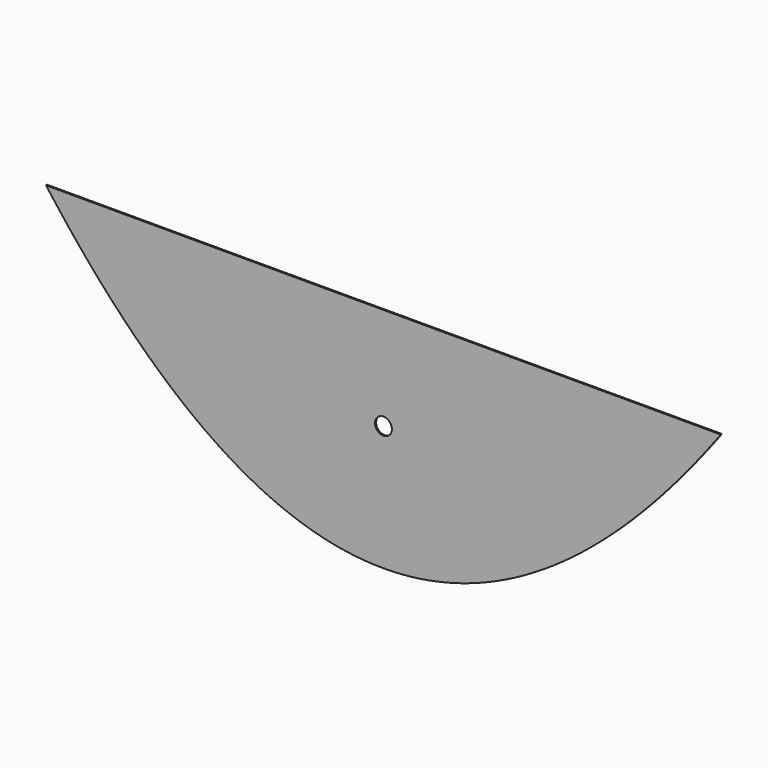
from build123d import *

# Parameters (mm, degrees)
F1_DEPTH = 2
F2_D     = 25


with BuildPart() as f1:
    # F0 (on Front) → F1 (new body)
    with BuildSketch(Plane.XZ):
        Polygon((499.9999999969, 168.5013241066), (-499.9999999969, 168.4978271156), (-498.8888878792, 167.0017129966), (-497.7777767614, 165.5089268689), (-496.6666646436, 164.0194697325), (-495.5555535259, 162.5333405876), (-494.4444414081, 161.0505394339), (-493.3333302903, 159.5710672717), (-492.2222181726, 158.0949241008), (-491.1111070548, 156.6221089213), (-489.999994937, 155.1526217332), (-488.8888838193, 153.6864625364), (-487.7777717015, 152.223632331), (-486.6666605837, 150.764131117), (-485.5555484659, 149.3079578943), (-484.4444373482, 147.855112663), (-483.3333252304, 146.405596423), (-482.2222141126, 144.9594081744), (-481.1111019949, 143.5165479172), (-479.9999908771, 142.0770166514), (-478.8888787593, 140.6408133769), (-477.7777676416, 139.2079390938), (-476.6666555238, 137.778392802), (-475.555544406, 136.3521755017), (-474.4444322882, 134.9292861926), (-473.3333211705, 133.509724875), (-472.2222090527, 132.0934925487), (-471.1110979349, 130.6805882138), (-469.9999858172, 129.2710128702), (-468.8888746994, 127.864765518), (-467.7777625816, 126.4618471572), (-466.6666514639, 125.0622557878), (-465.5555393461, 123.6659944097), (-464.4444282283, 122.273061023), (-463.3333161106, 120.8834556276), (-462.2222049928, 119.4971782236), (-461.111092875, 118.114229811), (-459.9999817572, 116.7346103897), (-458.8888696395, 115.3583179599), (-457.7777585217, 113.9853555213), (-456.6666464039, 112.6157200742), (-455.5555352862, 111.2494136184), (-454.4444231684, 109.8864361539), (-453.3333120506, 108.5267866809), (-452.2221999329, 107.1704651992), (-451.1110888151, 105.8174727089), (-449.9999766973, 104.4678082099), (-448.8888655795, 103.1214717023), (-447.7777534618, 101.7784641861), (-446.666642344, 100.4387856612), (-445.5555302262, 99.1024351277), (-444.4444191085, 97.7694125856), (-443.3333069907, 96.4397180348), (-442.2221958729, 95.1133524754), (-441.1110837552, 93.7903159074), (-439.9999726374, 92.4706073307), (-438.8888605196, 91.1542267454), (-437.7777494018, 89.8411751515), (-436.6666372841, 88.5314515489), (-435.5555261663, 87.2250559377), (-434.4444140485, 85.9219893179), (-433.3333029308, 84.6222516894), (-432.222190813, 83.3258420523), (-431.1110796952, 82.0327604066), (-429.9999675775, 80.7430067522), (-428.8888564597, 79.4565820892), (-427.7777443419, 78.1734864175), (-426.6666332241, 76.8937187373), (-425.5555211064, 75.6172790483), (-424.4444099886, 74.3441683508), (-423.3332978708, 73.0743856446), (-422.2221867531, 71.8079309298), (-421.1110746353, 70.5448052064), (-419.9999635175, 69.2850084743), (-418.8888513998, 68.0285387336), (-417.777740282, 66.7753989842), (-416.6666281642, 65.5255862263), (-415.5555170465, 64.2791024596), (-414.4444049287, 63.0359476844), (-413.3332938109, 61.7961199005), (-412.2221816931, 60.559622108), (-411.1110705754, 59.3264513069), (-409.9999584576, 58.0966094971), (-408.8888473398, 56.8700966787), (-407.7777352221, 55.6469118516), (-406.6666241043, 54.4270550159), (-405.5555119865, 53.2105271716), (-404.4444008688, 51.9973273186), (-403.333288751, 50.7874564571), (-402.2221776332, 49.5809135868), (-401.1110655154, 48.377698708), (-399.9999543977, 47.1778128205), (-398.8888422799, 45.9812549244), (-397.7777311621, 44.7880260196), (-396.6666190444, 43.5981251062), (-395.5555079266, 42.4115521842), (-394.4443958088, 41.2283082535), (-393.3332846911, 40.0483933143), (-392.2221725733, 38.8718053663), (-391.1110614555, 37.6985464098), (-389.9999493378, 36.5286164446), (-388.88883822, 35.3620144708), (-387.7777261022, 34.1987404883), (-386.6666149844, 33.0387954972), (-385.5555028667, 31.8821784975), (-384.4443917489, 30.7288904891), (-383.3332796311, 29.5789304721), (-382.2221685134, 28.4322994465), (-381.1110563956, 27.2889964122), (-379.9999452778, 26.1490213693), (-378.8888331601, 25.0123753178), (-377.7777220423, 23.8790572576), (-376.6666099245, 22.7490671888), (-375.5554988067, 21.6224061114), (-374.444386689, 20.4990740253), (-373.3332755712, 19.3790689306), (-372.2221634534, 18.2623938273), (-371.1110523357, 17.1490457153), (-369.9999402179, 16.0390265947), (-368.8888291001, 14.9323364655), (-367.7777169824, 13.8289743276), (-366.6666058646, 12.7289401811), (-365.5554937468, 11.6322350259), (-364.444382629, 10.5388578622), (-363.3332705113, 9.4488086898), (-362.2221593935, 8.3620885087), (-361.1110472757, 7.278697319), (-359.999936158, 6.1986331207), (-358.8888240402, 5.1218989138), (-357.7777129224, 4.0484916982), (-356.6666008047, 2.978413474), (-355.5554896869, 1.9116642412), (-354.4443775691, 0.8482419997), (-353.3332664514, -0.2118502504), (-352.2221543336, -1.2686155092), (-351.1110432158, -2.3220507766), (-349.999931098, -3.3721590526), (-348.8888199803, -4.4189383372), (-347.7777078625, -5.4623896305), (-346.6665967447, -6.5025119324), (-345.555484627, -7.539306243), (-344.4443735092, -8.5727715621), (-343.3332613914, -9.60290889), (-342.2221502737, -10.6297182264), (-341.1110381559, -11.6531985715), (-339.9999270381, -12.6733509252), (-338.8888149203, -13.6901742876), (-337.7777038026, -14.7036696586), (-336.6665916848, -15.7138360382), (-335.555480567, -16.7206744264), (-334.4443684493, -17.7241848233), (-333.3332573315, -18.7243662288), (-332.2221452137, -19.721219643), (-331.111034096, -20.7147450658), (-329.9999219782, -21.7049414972), (-328.8888108604, -22.6918089373), (-327.7776987427, -23.675348386), (-326.6665876249, -24.6555598433), (-325.5554755071, -25.6324423093), (-324.4443643893, -26.6059967838), (-323.3332522716, -27.5762232671), (-322.2221411538, -28.5431207589), (-321.111029036, -29.5066902594), (-319.9999179183, -30.4669307686), (-318.8888058005, -31.4238432863), (-317.7776946827, -32.3774268127), (-316.666582565, -33.3276823478), (-315.5554714472, -34.2746098914), (-314.4443593294, -35.2182084437), (-313.3332482116, -36.1584790047), (-312.2221360939, -37.0954205742), (-311.1110249761, -38.0290341524), (-309.9999128583, -38.9593197393), (-308.8888017406, -39.8862763347), (-307.7776896228, -40.8099039388), (-306.666578505, -41.7302045516), (-305.5554663873, -42.6471761729), (-304.4443552695, -43.5608188029), (-303.3332431517, -44.4711334416), (-302.2221320339, -45.3781200888), (-301.1110199162, -46.2817777448), (-299.9999087984, -47.1821074093), (-298.8887966806, -48.0791080825), (-297.7776855629, -48.9727807643), (-296.6665734451, -49.8631254547), (-295.5554623273, -50.7501411538), (-294.4443502096, -51.6338278615), (-293.3332390918, -52.5141875778), (-292.222126974, -53.3912183028), (-291.1110158562, -54.2649200364), (-289.9999037385, -55.1352937787), (-288.8887926207, -56.0023395296), (-287.7776805029, -56.8660562891), (-286.6665693852, -57.7264450572), (-285.5554572674, -58.583504834), (-284.4443461496, -59.4372366194), (-283.3332340319, -60.2876404135), (-282.2221229141, -61.1347152161), (-281.1110107963, -61.9784620275), (-279.9998996786, -62.8188798474), (-278.8887875608, -63.655969676), (-277.777676443, -64.4897305132), (-276.6665643252, -65.3201633591), (-275.5554532075, -66.1472682135), (-274.4443410897, -66.9710440767), (-273.3332299719, -67.7914919484), (-272.2221178542, -68.6086108288), (-271.1110067364, -69.4224017178), (-269.9998946186, -70.2328646155), (-268.8887835009, -71.0399985218), (-267.7776713831, -71.8438044367), (-266.6665602653, -72.6442813603), (-265.5554481475, -73.4414302924), (-264.4443370298, -74.2352512333), (-263.333224912, -75.0257431827), (-262.2221137942, -75.8129061408), (-261.1110016765, -76.5967421075), (-259.9998905587, -77.3772480829), (-258.8887784409, -78.1544270669), (-257.7776673232, -78.9282770595), (-256.6665552054, -79.6987980608), (-255.5554440876, -80.4659920707), (-254.4443319699, -81.2298560892), (-253.3332208521, -81.9903931164), (-252.2221087343, -82.7476011522), (-251.1109976165, -83.5014801966), (-249.9998854988, -84.2520312497), (-248.888774381, -84.9992543114), (-247.7776622632, -85.7431483817), (-246.6665511455, -86.4837144607), (-245.5554390277, -87.2209515483), (-244.4443279099, -87.9548606445), (-243.3332157922, -88.6854417494), (-242.2221046744, -89.4126938629), (-241.1109925566, -90.136617985), (-239.9998814388, -90.8572131158), (-238.8887693211, -91.5744802552), (-237.7776582033, -92.2884194032), (-236.6665460855, -92.9990295599), (-235.5554349678, -93.7063117252), (-234.44432285, -94.4102648992), (-233.3332117322, -95.1108900817), (-232.2220996145, -95.8081862729), (-231.1109884967, -96.5021544728), (-229.9998763789, -97.1927946813), (-228.8887652611, -97.8801058984), (-227.7776531434, -98.5640891241), (-226.6665420256, -99.2447433585), (-225.5554299078, -99.9220696015), (-224.4443187901, -100.5960678532), (-223.3332066723, -101.2667371134), (-222.2220955545, -101.9340783823), (-221.1109834368, -102.5980906599), (-219.999872319, -103.2587749461), (-218.8887602012, -103.9161302409), (-217.7776490835, -104.5701575443), (-216.6665369657, -105.2208568564), (-215.5554258479, -105.8682271771), (-214.4443137301, -106.5122695065), (-213.3332016124, -107.1529828445), (-212.2220904946, -107.7903681911), (-211.1109783768, -108.4244255463), (-209.9998672591, -109.0551539102), (-208.8887551413, -109.6825542828), (-207.7776440235, -110.3066256639), (-206.6665319058, -110.9273690537), (-205.555420788, -111.5447834521), (-204.4443086702, -112.1588708592), (-203.3331975524, -112.7696282749), (-202.2220854347, -113.3770576992), (-201.1109743169, -113.9811591321), (-199.9998621991, -114.5819325737), (-198.8887510814, -115.179377024), (-197.7776389636, -115.7734924828), (-196.6665278458, -116.3642799503), (-195.5554157281, -116.9517394264), (-194.4443046103, -117.5358699112), (-193.3331924925, -118.1166724046), (-192.2220813748, -118.6941469066), (-191.110969257, -119.2682924173), (-189.9998581392, -119.8391099366), (-188.8887460214, -120.4065984645), (-187.7776349037, -120.9707590011), (-186.6665227859, -121.5315905463), (-185.5554116681, -122.0890941001), (-184.4442995504, -122.6432696626), (-183.3331884326, -123.1941162337), (-182.2220763148, -123.7416348134), (-181.1109651971, -124.2858244018), (-179.9998530793, -124.8266859988), (-178.8887419615, -125.3642186044), (-177.7776298437, -125.8984242187), (-176.666518726, -126.4292998416), (-175.5554066082, -126.9568474731), (-174.4442954904, -127.4810671133), (-173.3331833727, -128.0019587621), (-172.2220722549, -128.5195214195), (-171.1109601371, -129.0337550856), (-169.9998490194, -129.5446617603), (-168.8887369016, -130.0522384437), (-167.7776257838, -130.5564881356), (-166.666513666, -131.0574088362), (-165.5554025483, -131.5550005455), (-164.4442904305, -132.0492642634), (-163.3331793127, -132.5401999899), (-162.222067195, -133.027806725), (-161.1109560772, -133.5120854688), (-159.9998439594, -133.9930362212), (-158.8887328417, -134.4706579823), (-157.7776207239, -134.9449507519), (-156.6665096061, -135.4159155303), (-155.5553974884, -135.8835523172), (-154.4442863706, -136.3478611128), (-153.3331742528, -136.808840917), (-152.222063135, -137.2664917298), (-151.1109510173, -137.7208145513), (-149.9998398995, -138.1718093814), (-148.8887277817, -138.6194752202), (-147.777616664, -139.0638130676), (-146.6665045462, -139.5048229236), (-145.5553934284, -139.9425037883), (-144.4442813107, -140.3768556615), (-143.3331701929, -140.8078795435), (-142.2220580751, -141.235575434), (-141.1109469573, -141.6599433332), (-139.9998348396, -142.080982241), (-138.8887237218, -142.4986921575), (-137.777611604, -142.9130740826), (-136.6665004863, -143.3241280163), (-135.5553883685, -143.7318529587), (-134.4442772507, -144.1362499097), (-133.333165133, -144.5373188693), (-132.2220540152, -144.9350588375), (-131.1109418974, -145.3294708144), (-129.9998307796, -145.7205538), (-128.8887186619, -146.1083087941), (-127.7776075441, -146.4927347969), (-126.6664954263, -146.8738328083), (-125.5553843086, -147.2516028284), (-124.4442721908, -147.6260438571), (-123.333161073, -147.9971558944), (-122.2220489553, -148.3649409404), (-121.1109378375, -148.729396995), (-119.9998257197, -149.0905240582), (-118.888714602, -149.4483231301), (-117.7776024842, -149.8027942106), (-116.6664913664, -150.1539362997), (-115.5553792486, -150.5017503975), (-114.4442681309, -150.8462355039), (-113.3331560131, -151.1873926189), (-112.2220448953, -151.5252217426), (-111.1109327776, -151.8597218749), (-109.9998216598, -152.1908940159), (-108.888709542, -152.5187371654), (-107.7775984243, -152.8432523236), (-106.6664863065, -153.1644394905), (-105.5553751887, -153.4822976659), (-104.4442630709, -153.7968278501), (-103.3331519532, -154.1080290428), (-102.2220398354, -154.4159022442), (-101.1109287176, -154.7204464542), (-99.9998165999, -155.0216626728), (-98.8887054821, -155.3195509001), (-97.7775933643, -155.614110136), (-96.6664822466, -155.9053413806), (-95.5553701288, -156.1932436337), (-94.444259011, -156.4778178956), (-93.3331468933, -156.759064166), (-92.2220357755, -157.0369814451), (-91.1109236577, -157.3115697328), (-89.9998125399, -157.5828310291), (-88.8887004222, -157.8507623341), (-87.7775893044, -158.1153666477), (-86.6664771866, -158.37664197), (-85.5553660689, -158.6345893009), (-84.4442539511, -158.8892076404), (-83.3331428333, -159.1404979885), (-82.2220307156, -159.3884593453), (-81.1109195978, -159.6330927107), (-79.99980748, -159.8743970848), (-78.8886963622, -160.1123744675), (-77.7775842445, -160.3470218588), (-76.6664731267, -160.5783422588), (-75.5553610089, -160.8063326674), (-74.4442498912, -161.0309960846), (-73.3331377734, -161.2523305104), (-72.2220266556, -161.4703369449), (-71.1109145379, -161.6850143881), (-69.9998034201, -161.8963638398), (-68.8886913023, -162.1043843002), (-67.7775801845, -162.3090767692), (-66.6664680668, -162.5104412469), (-65.555356949, -162.7084767332), (-64.4442448312, -162.9031832281), (-63.3331377135, -163.0945617317), (-62.2220295957, -163.2826112439), (-61.1109214779, -163.4673327647), (-59.9998133601, -163.6487262942), (-58.8887062423, -163.8267908323), (-57.7775981246, -164.001527379), (-56.6664900068, -164.1729349344), (-55.555382889, -164.3410144984), (-54.4442747712, -164.505765071), (-53.3331666534, -164.6671876523), (-52.2220595357, -164.8252822422), (-51.1109514179, -164.9800478407), (-49.9998433001, -165.1314854479), (-48.8887361823, -165.2795950637), (-47.7776280645, -165.4243756881), (-46.6665199468, -165.5658283212), (-45.555412829, -165.7039519629), (-44.4443047112, -165.8387476132), (-43.3331965934, -165.9702152722), (-42.2220884756, -166.0983539398), (-41.1109813579, -166.2231646161), (-39.9998732401, -166.3446463009), (-38.8887651223, -166.4627999944), (-37.7776580045, -166.5776256966), (-36.6665498868, -166.6891224074), (-35.555441769, -166.7972911268), (-34.4443346512, -166.9021318548), (-33.3332265334, -167.0036435915), (-32.2221184156, -167.1018263368), (-31.1110112979, -167.1966820908), (-29.9999031801, -167.2882078533), (-28.8887950623, -167.3764066245), (-27.7776879445, -167.4612764044), (-26.6665798267, -167.5428181929), (-25.555471709, -167.62103099), (-24.4443635912, -167.6959157957), (-23.3332564734, -167.7674726101), (-22.2221483556, -167.8357004331), (-21.1110402378, -167.9005992648), (-19.9999331201, -167.9621711051), (-18.8888250023, -168.020413954), (-17.7777168845, -168.0753278115), (-16.6666097667, -168.1269136777), (-15.5555016489, -168.1751715525), (-14.4443935312, -168.220101436), (-13.3332864134, -168.2617023281), (-12.2221782956, -168.2999742288), (-11.1110701778, -168.3349181382), (-9.99996306, -168.3665340561), (-8.8888549423, -168.3948219828), (-7.7777468245, -168.419780918), (-6.6666387067, -168.4414108619), (-5.5555295889, -168.4597138144), (-4.4444214711, -168.4746877756), (-3.3333133534, -168.4863327454), (-2.2222052356, -168.4946497238), (-1.1110971178, -168.4996387109), (1.1e-05, -168.5012987066), (1.1111201177, -168.4996307109), (2.2222282355, -168.4946337239), (3.3333363533, -168.4863087455), (4.4444444711, -168.4746557757), (5.5555525889, -168.4596738145), (6.6666607066, -168.441363862), (7.7777698244, -168.4197259182), (8.8888779422, -168.3947589829), (9.99998506, -168.3664640563), (11.1110931778, -168.3348401384), (12.2222012955, -168.299888229), (13.3333094133, -168.2616083283), (14.4444165311, -168.2199994363), (15.5555246489, -168.1750615528), (16.6666327666, -168.126796678), (17.7777398844, -168.0752028119), (18.8888480022, -168.0202799543), (19.99995612, -167.9620301054), (21.1110632378, -167.9004502652), (22.2221713555, -167.8355434335), (23.3332794733, -167.7673076105), (24.4443865911, -167.6957437962), (25.5554947089, -167.6208509905), (26.6666028267, -167.5426301934), (27.7777099444, -167.4610804049), (28.8888180622, -167.3762026251), (29.99992618, -167.2879968539), (31.1110332978, -167.1964620913), (32.2221414156, -167.1015993374), (33.3332495333, -167.0034075921), (34.4443576511, -166.9018888554), (35.5554647689, -166.7970401274), (36.6665728867, -166.688864408), (37.7776810045, -166.5773586973), (38.8887881222, -166.4625259952), (39.99989624, -166.3443643017), (41.1110043578, -166.2228746168), (42.2221114756, -166.0980559406), (43.3332195934, -165.969909273), (44.4443277111, -165.8384346141), (45.5554348289, -165.7036309637), (46.6665429467, -165.565499322), (47.7776510645, -165.424038689), (48.8887581823, -165.2792500646), (49.9998663, -165.1311334488), (51.1109744178, -164.9796878416), (52.2220825356, -164.8249142431), (53.3331896534, -164.6668116533), (54.4442977712, -164.505381072), (55.5554058889, -164.3406224994), (56.6665130067, -164.1725349354), (57.7776211245, -164.0011193801), (58.8887292423, -163.8263748333), (59.9998363601, -163.6483022953), (61.1109444778, -163.4669017658), (62.2220525956, -163.282172245), (63.3331597134, -163.0941147328), (64.4442678312, -162.9027292293), (65.5553799489, -162.7080137344), (66.6664910667, -162.5099702481), (67.7776031845, -162.3085987705), (68.8887143022, -162.1038983015), (69.99982642, -161.8958698411), (71.1109375378, -161.6845123894), (72.2220496556, -161.4698269462), (73.3331607733, -161.2518135118), (74.4442728911, -161.0304710859), (75.5553840089, -160.8057996687), (76.6664961266, -160.5778012602), (77.7776072444, -160.3464738602), (78.8887193622, -160.1118174689), (79.9998304799, -159.8738330863), (81.1109425977, -159.6325207122), (82.2220537155, -159.3878793468), (83.3331658333, -159.1399099901), (84.444276951, -158.8886116419), (85.5553890688, -158.6339853024), (86.6665001866, -158.3760309716), (87.7776123043, -158.1147476493), (88.8887234221, -157.8501353358), (89.9998355399, -157.5821960308), (91.1109466576, -157.3109277345), (92.2220587754, -157.0363304468), (93.3331698932, -156.7584051677), (94.4442820109, -156.4771518973), (95.5553931287, -156.1925696355), (96.6665052465, -155.9046593823), (97.7776163643, -155.6134201378), (98.888728482, -155.3188529019), (99.9998395998, -155.0209576747), (101.1109517176, -154.719733456), (102.2220628353, -154.415180246), (103.3331749531, -154.1073000447), (104.4442860709, -153.796090852), (105.5553981886, -153.4815526679), (106.6665093064, -153.1636864924), (107.7776214242, -152.8424923256), (108.888732542, -152.5179691674), (109.9998446597, -152.1901180179), (111.1109557775, -151.858937877), (112.2220678953, -151.5244297447), (113.333179013, -151.186593621), (114.4442911308, -150.845428506), (115.5554022486, -150.5009353996), (116.6665143663, -150.1531133019), (117.7776254841, -149.8019632128), (118.8887376019, -149.4474841323), (119.9998487197, -149.0896780604), (121.1109608374, -148.7285419972), (122.2220719552, -148.3640779426), (123.333184073, -147.9962858967), (124.4442951907, -147.6251658594), (125.5554073085, -147.2507168307), (126.6665184263, -146.8729388107), (127.777630544, -146.4918327993), (128.8887346618, -146.1074017965), (129.9998457796, -145.7196388023), (131.1109578974, -145.3285478168), (132.2220690151, -144.93412884), (133.3331811329, -144.5363808717), (134.4442922507, -144.1353049121), (135.5554043684, -143.7308999611), (136.6665154862, -143.3231670188), (137.777627604, -142.9121050851), (138.8887387218, -142.49771516), (139.9998508395, -142.0799972436), (141.1109619573, -141.6589503358), (142.2220740751, -141.2345754366), (143.3331851928, -140.8068715461), (144.4442973106, -140.3758396642), (145.5554084284, -139.9414797909), (146.6665205461, -139.5037909263), (147.7776316639, -139.0627740703), (148.8887437817, -138.6184282229), (149.9998548995, -138.1707543842), (151.1109670172, -137.7197515541), (152.222078135, -137.2654207326), (153.3331902528, -136.8077619198), (154.4443013705, -136.3467741156), (155.5554134883, -135.88245832), (156.6665246061, -135.4148135331), (157.7776367238, -134.9438407548), (158.8887478416, -134.4695399852), (159.9998599594, -133.9919102241), (161.1109710772, -133.5109524717), (162.2220831949, -133.026665728), (163.3331943127, -132.5390509929), (164.4443064305, -132.0481072664), (165.5554175482, -131.5538365485), (166.666529666, -131.0562358393), (167.7776407838, -130.5553071387), (168.8887529015, -130.0510504467), (169.9998640193, -129.5434657634), (171.1109761371, -129.0325520887), (172.2220872548, -128.5183094227), (173.3331993726, -128.0007387653), (174.4443104904, -127.4798401165), (175.5554226082, -126.9556134763), (176.6665337259, -126.4280568448), (177.7776458437, -125.8971732219), (178.8887569615, -125.3629606077), (179.9998690792, -124.8254200021), (181.110980197, -124.2845504051), (182.2220923148, -123.7403528167), (183.3332034325, -123.192826237), (184.4443155503, -122.6419716659), (185.5554266681, -122.0877891035), (186.6665387859, -121.5302775497), (187.7776499036, -120.9694380045), (188.8887620214, -120.405269468), (189.9998731392, -119.8377729401), (191.1109852569, -119.2669484208), (192.2220963747, -118.6927949101), (193.3332084925, -118.1153124081), (194.4443196102, -117.5345029147), (195.555431728, -116.95036343), (196.6665428458, -116.3628969539), (197.7776549635, -115.7721014864), (198.8887660813, -115.1779780276), (199.9998781991, -114.5805255774), (201.1109893169, -113.9797451358), (202.2221014346, -113.3756357029), (203.3332125524, -112.7681982786), (204.4443246702, -112.1574318629), (205.5554357879, -111.5433374559), (206.6665479057, -110.9259150575), (207.7776590235, -110.3051636677), (208.8887711412, -109.6810842866), (209.999882259, -109.0536769141), (211.1109943768, -108.4229405502), (212.2221054946, -107.788875195), (213.3332176123, -107.1514828484), (214.4443287301, -106.5107605104), (215.5554408479, -105.8667111811), (216.6665519656, -105.2193328604), (217.7776640834, -104.5686255483), (218.8887752012, -103.9145902449), (219.9998873189, -103.2572269501), (221.1109984367, -102.5965356639), (222.2221105545, -101.9325143864), (223.3332216723, -101.2651661175), (224.44433379, -100.5944888572), (225.5554449078, -99.9204836056), (226.6665570256, -99.2431493626), (227.7776681433, -98.5624871283), (228.8887802611, -97.8784959026), (229.9998913789, -97.1911766855), (231.1110034966, -96.500529477), (232.2221146144, -95.8065532772), (233.3332267322, -95.109248086), (234.4443378499, -94.4086159034), (235.5554499677, -93.7046547295), (236.6665610855, -92.9973645642), (237.7776732033, -92.2867464076), (238.888784321, -91.5728002596), (239.9998964388, -90.8555251202), (241.1110075566, -90.1349219894), (242.2221196743, -89.4109898673), (243.3332307921, -88.6837297538), (244.4443429099, -87.953141649), (245.5554540276, -87.2192245528), (246.6665661454, -86.4819794652), (247.7776772632, -85.7414053862), (248.888789381, -84.9975033159), (249.9999004987, -84.2502732542), (251.1110126165, -83.4997142012), (252.2221237343, -82.7458261568), (253.333235852, -81.988611121), (254.4443469698, -81.2280660939), (255.5554590876, -80.4641940754), (256.6665552054, -79.6970030655), (257.7776673231, -78.9264740642), (258.8887784409, -78.1526160716), (259.9998905587, -77.3754300876), (261.1110016765, -76.5949161123), (262.2221137942, -75.8110721456), (263.333224912, -75.0239011875), (264.4443370298, -74.2334012381), (265.5554481475, -73.4395732973), (266.6665602653, -72.6424163651), (267.7776713831, -71.8419314416), (268.8887835008, -71.0381185267), (269.9998946186, -70.2309766204), (271.1110067364, -69.4205057228), (272.2221178542, -68.6067078337), (273.3332299719, -67.7895799534), (274.4443410897, -66.9691250816), (275.5554532075, -66.1453412185), (276.6665643252, -65.3182283641), (277.777676443, -64.4877885182), (278.8887875608, -63.6540186811), (279.9998996785, -62.8169218525), (281.1110107963, -61.9764960326), (282.2221229141, -61.1327412213), (283.3332340319, -60.2856584186), (284.4443461496, -59.4352476246), (285.5554572674, -58.5815078392), (286.6665693852, -57.7244400624), (287.7776805029, -56.8640432943), (288.8887926207, -56.0003185348), (289.9999037385, -55.1332657839), (291.1110158562, -54.2628840417), (292.222126974, -53.3891743081), (293.3332390918, -52.5121355832), (294.4443502096, -51.6317688668), (295.5554623273, -50.7480741592), (296.6665734451, -49.8610504601), (297.7776855629, -48.9706977697), (298.8887966806, -48.0770180879), (299.9999087984, -47.1800094147), (301.1110199162, -46.2796717502), (302.2221320339, -45.3760060943), (303.3332431517, -44.4690124471), (304.4443552695, -43.5586898085), (305.5554663872, -42.6450391785), (306.666578505, -41.7280595571), (307.7776896228, -40.8077519444), (308.8888017406, -39.8841163403), (309.9999128583, -38.9571517449), (311.1110249761, -38.0268581581), (312.2221360939, -37.0932375799), (313.3332482116, -36.1562880103), (314.4443593294, -35.2160094494), (315.5554714472, -34.2724028971), (316.6665825649, -33.3254683535), (317.7776946827, -32.3752048185), (318.8888058005, -31.4216132921), (319.9999179183, -30.4646927744), (321.111029036, -29.5044442653), (322.2221411538, -28.5408677648), (323.3332522716, -27.5739622729), (324.4443643893, -26.6037277897), (325.5554755071, -25.6301663152), (326.6665876249, -24.6532758492), (327.7776987426, -23.6730563919), (328.8888108604, -22.6895089432), (329.9999219782, -21.7026335032), (331.1110340959, -20.7124290718), (332.2221452137, -19.718896649), (333.3332573315, -18.7220352349), (334.4443684493, -17.7218458294), (335.555480567, -16.7183284325), (336.6665916848, -15.7114820443), (337.7777038026, -14.7013076647), (338.8888149203, -13.6878042937), (339.9999270381, -12.6709729314), (341.1110381559, -11.6508125777), (342.2221502736, -10.6273242326), (343.3332613914, -9.6005078962), (344.4443735092, -8.5703625684), (345.555484627, -7.5368892492), (346.6665967447, -6.5000879387), (347.7777078625, -5.4599576368), (348.8888199803, -4.4164983435), (349.999931098, -3.3697110589), (351.1110432158, -2.3195957829), (352.2221543336, -1.2661515156), (353.3332664513, -0.2093792568), (354.4443775691, 0.8507209933), (355.5554896869, 1.9141502347), (356.6666008047, 2.9809074675), (357.7777129224, 4.0509936917), (358.8888240402, 5.1244079073), (359.999936158, 6.2011511142), (361.1110472757, 7.2812223125), (362.2221593935, 8.3646215022), (363.3332705113, 9.4513496832), (364.444382629, 10.5414058556), (365.5554937468, 11.6347910193), (366.6666058646, 12.7315041744), (367.7777169823, 13.8315463209), (368.8888291001, 14.9349164588), (369.9999402179, 16.041614588), (371.1110523357, 17.1516417086), (372.2221634534, 18.2649968205), (373.3332755712, 19.3816799238), (374.444386689, 20.5016920185), (375.5554988067, 21.6250331046), (376.6666099245, 22.751701182), (377.7777220423, 23.8816992508), (378.88883316, 25.0150243109), (379.9999452778, 26.1516783624), (381.1110563956, 27.2916614053), (382.2221685134, 28.4349724395), (383.3332796311, 29.5816114652), (384.4443917489, 30.7315794821), (385.5555028667, 31.8848754905), (386.6666149844, 33.0414994902), (387.7777261022, 34.2014524813), (388.88883822, 35.3647344637), (389.9999493377, 36.5313434375), (391.1110614555, 37.7012824027), (392.2221725733, 38.8745483592), (393.333284691, 40.0511433071), (394.4443958088, 41.2310672464), (395.5555079266, 42.414319177), (396.6666190444, 43.600899099), (397.7777311621, 44.7908080124), (398.8888422799, 45.9840449171), (399.9999543977, 47.1806098132), (401.1110655154, 48.3805037007), (402.2221776332, 49.5837265795), (403.333288751, 50.7902764497), (404.4444008687, 52.0001563113), (405.5555119865, 53.2133631642), (406.6666241043, 54.4298990085), (407.7777352221, 55.6497638442), (408.8888473398, 56.8729556712), (409.9999584576, 58.0994774896), (411.1110705754, 59.3293262994), (412.2221816931, 60.5625041005), (413.3332938109, 61.799010893), (414.4444049287, 63.0388456769), (415.5555170464, 64.2820084521), (416.6666281642, 65.5285002187), (417.777740282, 66.7783199767), (418.8888513998, 68.031468726), (419.9999635175, 69.2879454667), (421.1110746353, 70.5477501987), (422.2221867531, 71.8108839222), (423.3332978708, 73.077345637), (424.4444099886, 74.3471363431), (425.5555211064, 75.6202550406), (426.6666332241, 76.8967027295), (427.7777443419, 78.1764774098), (428.8888564597, 79.4595820814), (429.9999675774, 80.7460147444), (431.1110796952, 82.0357753987), (432.222190813, 83.3288640445), (433.3333029308, 84.6252816815), (434.4444140485, 85.92502831), (435.5555261663, 87.2281019298), (436.6666372841, 88.534505541), (437.7777494018, 89.8442361435), (438.8888605196, 91.1572957375), (439.9999726374, 92.4736843227), (441.1110837551, 93.7934008994), (442.2221958729, 95.1164454674), (443.3333069907, 96.4428190268), (444.4444191085, 97.7725205775), (445.5555302262, 99.1055511196), (446.666642344, 100.4419096531), (447.7777534618, 101.781596178), (448.8888655795, 103.1246116942), (449.9999766973, 104.4709552017), (451.1110888151, 105.8206277007), (452.2221999328, 107.173628191), (453.3333120506, 108.5299566727), (454.4444231684, 109.8896141457), (455.5555352862, 111.2525996101), (456.6666464039, 112.6189140659), (457.7777585217, 113.988556513), (458.8888696395, 115.3615279515), (459.9999817572, 116.7378273814), (461.111092875, 118.1174548026), (462.2222049928, 119.5004112152), (463.3333161105, 120.8866956192), (464.4444282283, 122.2763090145), (465.5555393461, 123.6692504012), (466.6666514638, 125.0655197793), (467.7777625816, 126.4651181487), (468.8888746994, 127.8680445095), (469.9999858172, 129.2742998617), (471.1110979349, 130.6838832052), (472.2222090527, 132.0967955401), (473.3333211705, 133.5130348664), (474.4444322882, 134.932604184), (475.555544406, 136.355501493), (476.6666555238, 137.7817267934), (477.7777676415, 139.2112800851), (478.8888787593, 140.6441623682), (479.9999908771, 142.0803736427), (481.1111019949, 143.5199129085), (482.2222141126, 144.9627801657), (483.3333252304, 146.4089764143), (484.4444373482, 147.8585006542), (485.5555484659, 149.3113528855), (486.6666605837, 150.7675341081), (487.7777717015, 152.2270443221), (488.8888838192, 153.6898815275), (489.999994937, 155.1560477243), (491.1111070548, 156.6255429124), (492.2222181726, 158.0983660919), (493.3333302903, 159.5745172628), (494.4444414081, 161.053997425), (495.5555535259, 162.5368065786), (496.6666646436, 164.0229427235), (497.7777767614, 165.5124078598), (498.8888878792, 167.0052019875), align=None)
    extrude(amount=F1_DEPTH)

    # F2 (through all)
    with Locations(Plane(origin=(0, 0, 0), x_dir=(1, 0, 0), z_dir=(0, 1, 0))):
        with Locations((0, -16.9595756111)):
            Hole(F2_D / 2)


solid = f1.part
